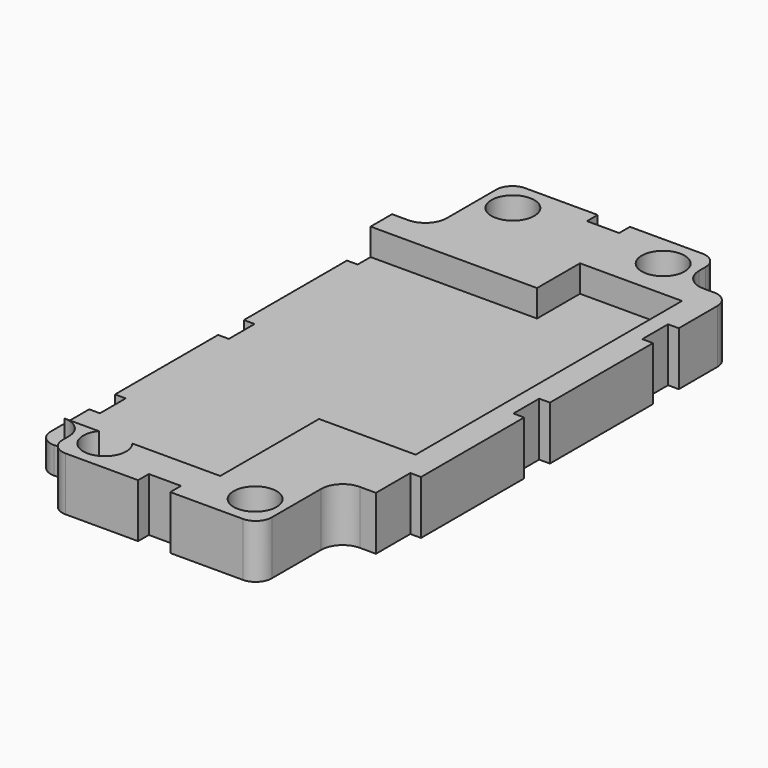
from build123d import *

# Parameters (mm, degrees)
BOX014_W               = 19
BOX014_H               = 62
BOX014_DEPTH           = 10
BOX013_W               = 34
BOX013_H               = 75
BOX013_DEPTH           = 10
BOX002_W               = 9
BOX002_H               = 9
BOX002_DEPTH           = 10
BOX003_W               = 9
BOX003_H               = 19
BOX003_DEPTH           = 10
BOX004_W               = 9
BOX004_H               = 9
BOX004_DEPTH           = 10
BOX005_W               = 2
BOX005_H               = 6
BOX005_DEPTH           = 10
BOX006_W               = 2
BOX006_H               = 8
BOX006_DEPTH           = 10
BOX007_W               = 2
BOX007_H               = 6
BOX007_DEPTH           = 10
BOX008_W               = 2
BOX008_H               = 6
BOX008_DEPTH           = 10
BOX009_W               = 2
BOX009_H               = 6
BOX009_DEPTH           = 10
BOX010_W               = 2
BOX010_H               = 8
BOX010_DEPTH           = 10
CYLINDER_R             = 4
CYLINDER_DEPTH         = 10
CYLINDER002_R          = 4
CYLINDER002_DEPTH      = 10
CYLINDER001_R          = 4
CYLINDER001_DEPTH      = 10
CYLINDER003_R          = 4
CYLINDER003_DEPTH      = 10
BOX011_W               = 3
BOX011_H               = 6
BOX011_DEPTH           = 10
BOX011_PLACEMENT_ANGLE = 90
BOX012_W               = 3
BOX012_H               = 6
BOX012_DEPTH           = 10
BOX012_PLACEMENT_ANGLE = 90
BOX001_W               = 9
BOX001_H               = 19
BOX001_DEPTH           = 10
BOX_W                  = 57
BOX_H                  = 107
BOX_DEPTH              = 10
FILLET_R               = 3
FILLET001_R            = 4


with BuildPart() as cube014:
    # Box014 → Box014 (new body)
    with BuildSketch(Plane(origin=(33, 32, 5), x_dir=(1, 0, 0), z_dir=(0, 0, 1))):
        with Locations((9.5, 31)):
            Rectangle(BOX014_W, BOX014_H)
    extrude(amount=BOX014_DEPTH)


with BuildPart() as fusion001:
    # Box013 → Box013 (new body)
    with BuildSketch(Plane(origin=(0, 9, 5), x_dir=(1, 0, 0), z_dir=(0, 0, 1))):
        with Locations((17, 37.5)):
            Rectangle(BOX013_W, BOX013_H)
    extrude(amount=BOX013_DEPTH)

    # Fusion001: union Cube014
    add(cube014.part)


with BuildPart() as cube002:
    # Box002 → Box002 (new body)
    with BuildSketch(Plane.XY):
        with Locations((4.5, 4.5)):
            Rectangle(BOX002_W, BOX002_H)
    extrude(amount=BOX002_DEPTH)


with BuildPart() as cube003:
    # Box003 → Box003 (new body)
    with BuildSketch(Plane(origin=(0, 89, 0), x_dir=(1, 0, 0), z_dir=(0, 0, 1))):
        with Locations((4.5, 9.5)):
            Rectangle(BOX003_W, BOX003_H)
    extrude(amount=BOX003_DEPTH)


with BuildPart() as cube004:
    # Box004 → Box004 (new body)
    with BuildSketch(Plane(origin=(48, 99, 0), x_dir=(1, 0, 0), z_dir=(0, 0, 1))):
        with Locations((4.5, 4.5)):
            Rectangle(BOX004_W, BOX004_H)
    extrude(amount=BOX004_DEPTH)


with BuildPart() as cube005:
    # Box005 → Box005 (new body)
    with BuildSketch(Plane(origin=(0, 51, 0), x_dir=(1, 0, 0), z_dir=(0, 0, 1))):
        with Locations((1, 3)):
            Rectangle(BOX005_W, BOX005_H)
    extrude(amount=BOX005_DEPTH)


with BuildPart() as cube006:
    # Box006 → Box006 (new body)
    with BuildSketch(Plane(origin=(0, 81, 0), x_dir=(1, 0, 0), z_dir=(0, 0, 1))):
        with Locations((1, 4)):
            Rectangle(BOX006_W, BOX006_H)
    extrude(amount=BOX006_DEPTH)


with BuildPart() as cube007:
    # Box007 → Box007 (new body)
    with BuildSketch(Plane(origin=(0, 21, 0), x_dir=(1, 0, 0), z_dir=(0, 0, 1))):
        with Locations((1, 3)):
            Rectangle(BOX007_W, BOX007_H)
    extrude(amount=BOX007_DEPTH)


with BuildPart() as cube008:
    # Box008 → Box008 (new body)
    with BuildSketch(Plane(origin=(55, 51, 0), x_dir=(1, 0, 0), z_dir=(0, 0, 1))):
        with Locations((1, 3)):
            Rectangle(BOX008_W, BOX008_H)
    extrude(amount=BOX008_DEPTH)


with BuildPart() as cube009:
    # Box009 → Box009 (new body)
    with BuildSketch(Plane(origin=(55, 81, 0), x_dir=(1, 0, 0), z_dir=(0, 0, 1))):
        with Locations((1, 3)):
            Rectangle(BOX009_W, BOX009_H)
    extrude(amount=BOX009_DEPTH)


with BuildPart() as cube010:
    # Box010 → Box010 (new body)
    with BuildSketch(Plane(origin=(55, 19, 0), x_dir=(1, 0, 0), z_dir=(0, 0, 1))):
        with Locations((1, 4)):
            Rectangle(BOX010_W, BOX010_H)
    extrude(amount=BOX010_DEPTH)


with BuildPart() as cylinder:
    # Cylinder → Cylinder (new body)
    with BuildSketch(Plane(origin=(14.5, 6.5, 0), x_dir=(1, 0, 0), z_dir=(0, 0, 1))):
        Circle(CYLINDER_R)
    extrude(amount=CYLINDER_DEPTH)


with BuildPart() as cylinder002:
    # Cylinder002 → Cylinder002 (new body)
    with BuildSketch(Plane(origin=(42.5, 101.5, 0), x_dir=(1, 0, 0), z_dir=(0, 0, 1))):
        Circle(CYLINDER002_R)
    extrude(amount=CYLINDER002_DEPTH)


with BuildPart() as cylinder001:
    # Cylinder001 → Cylinder001 (new body)
    with BuildSketch(Plane(origin=(42.5, 6.5, 0), x_dir=(1, 0, 0), z_dir=(0, 0, 1))):
        Circle(CYLINDER001_R)
    extrude(amount=CYLINDER001_DEPTH)


with BuildPart() as cylinder003:
    # Cylinder003 → Cylinder003 (new body)
    with BuildSketch(Plane(origin=(14.5, 101.5, 0), x_dir=(1, 0, 0), z_dir=(0, 0, 1))):
        Circle(CYLINDER003_R)
    extrude(amount=CYLINDER003_DEPTH)


with BuildPart() as cube011:
    # Box011 → Box011 (new body)
    with BuildSketch(Plane.XY):
        with Locations((1.5, 3)):
            Rectangle(BOX011_W, BOX011_H)
    extrude(amount=BOX011_DEPTH)


with BuildPart() as cube011_1:
    # Box011 placement: moved
    add(cube011.part.moved(Location((31.5, 0, 0))).rotate(Axis((31.5, 0, 0), (0, 0, 1)), BOX011_PLACEMENT_ANGLE))


with BuildPart() as cube012:
    # Box012 → Box012 (new body)
    with BuildSketch(Plane.XY):
        with Locations((1.5, 3)):
            Rectangle(BOX012_W, BOX012_H)
    extrude(amount=BOX012_DEPTH)


with BuildPart() as cube012_1:
    # Box012 placement: moved
    add(cube012.part.moved(Location((31.5, 105, 0))).rotate(Axis((31.5, 105, 0), (0, 0, 1)), BOX012_PLACEMENT_ANGLE))


with BuildPart() as fusion:
    # Box001 → Box001 (new body)
    with BuildSketch(Plane(origin=(48, 0, 0), x_dir=(1, 0, 0), z_dir=(0, 0, 1))):
        with Locations((4.5, 9.5)):
            Rectangle(BOX001_W, BOX001_H)
    extrude(amount=BOX001_DEPTH)

    # Fusion: union Cube002, Cube003, Cube004, Cube005, Cube006, Cube007, Cube008, Cube009, Cube010, Cylinder, Cylinder002, Cylinder001, Cylinder003, Cube011, Cube012
    add(cube002.part)
    add(cube003.part)
    add(cube004.part)
    add(cube005.part)
    add(cube006.part)
    add(cube007.part)
    add(cube008.part)
    add(cube009.part)
    add(cube010.part)
    add(cylinder.part)
    add(cylinder002.part)
    add(cylinder001.part)
    add(cylinder003.part)
    add(cube011_1.part)
    add(cube012_1.part)


with BuildPart() as cut001:
    # Box → Box (new body)
    with BuildSketch(Plane(origin=(0, 0.5, 0), x_dir=(1, 0, 0), z_dir=(0, 0, 1))):
        with Locations((28.5, 53.5)):
            Rectangle(BOX_W, BOX_H)
    extrude(amount=BOX_DEPTH)

    # Cut: cut Fusion
    add(fusion.part, mode=Mode.SUBTRACT)

    # Fillet
    fillet_edges = [cut001.edges().sort_by_distance(p)[0] for p in [
        (9, 107.5, 5),
        (48, 107.5, 5),
        (57, 99, 5),
        (48, 0.5, 5),
        (9, 0.5, 5),
        (0, 9, 5),
    ]]
    fillet(fillet_edges, radius=FILLET_R)

    # Fillet001
    fillet001_edges = [cut001.edges().sort_by_distance(p)[0] for p in [
        (9, 89, 5),
        (48, 99, 5),
        (9, 9, 5),
        (48, 19, 5),
    ]]
    fillet(fillet001_edges, radius=FILLET001_R)

    # Cut001: cut Fusion001
    add(fusion001.part, mode=Mode.SUBTRACT)


solid = cut001.part
